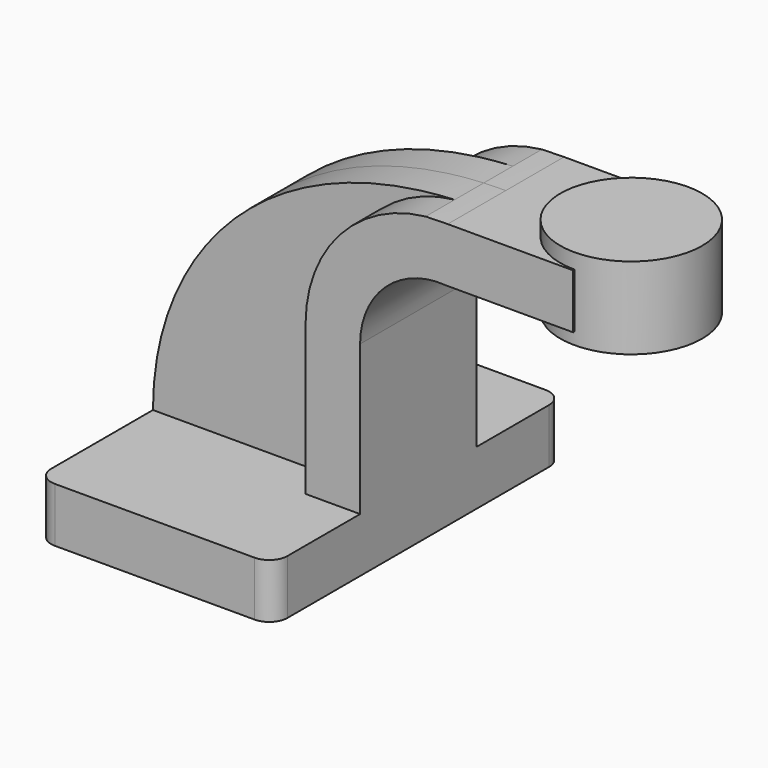
from build123d import *

# Parameters (mm, degrees)
F1_DEPTH = 2.5
F0_W     = 1.0246116972
F0_H     = 0.75
F2_DEPTH = 1
F3_DEPTH = 0.5
F5_R     = 0.25
F6_SCALE = 10


with BuildPart() as f1:
    # F0 (on Front) → F1 (new body, symmetric)
    with BuildSketch(Plane.XZ):
        Polygon((-1.625, 0.375), (-1.625, -0.375), (1.625, -0.375), (1.625, 0.375), (0.875, 0.375), align=None)
    extrude(amount=F1_DEPTH, both=True)

    # F0 (on Front) → F2 (join, symmetric)
    with BuildSketch(Plane.XZ):
        with BuildLine():
            Line((0.875, 0.375), (1.625, 0.375))
            Line((1.625, 0.375), (1.625, 2.435))
            ThreePointArc((1.625, 2.435), (1.9763518814, 3.2395897205), (2.8053269877, 3.5287489089))
            Line((2.8053269877, 3.5287489089), (3.5307152905, 3.5287489089))
            Line((3.5307152905, 3.5287489089), (3.5307152905, 4.2787489089))
            Line((3.5307152905, 4.2787489089), (2.8301783535, 4.2787489089))
            add(Edge.make_bspline(
                [(2.5259841505, 4.2715011565), (2.6257724531, 4.2763068408), (2.7271772665, 4.2787489089), (2.8301783535, 4.2787489089)],
                knots=[5.7079224482, 5.7079224482, 5.7079224482, 5.7079224482, 5.9235014734, 5.9235014734, 5.9235014734, 5.9235014734], degree=3))
            ThreePointArc((2.5259841505, 4.2715011565), (1.3484222124, 3.6697555591), (0.875, 2.435))
            Line((0.875, 2.435), (0.875, 0.375))
        make_face()
        with Locations((4.0430211391, 3.9037489089)):
            Rectangle(F0_W, F0_H)
    extrude(amount=F2_DEPTH, both=True)

    # F0 (on Front) → F3 (join, symmetric)
    with BuildSketch(Plane.XZ):
        with BuildLine():
            add(Edge.make_bspline(
                [(-1.625, 0.375), (-1.625, 2.3600286686), (-0.1161276805, 4.1442602386), (2.5259841505, 4.2715011565)],
                knots=[0, 0, 0, 0, 5.7079224482, 5.7079224482, 5.7079224482, 5.7079224482], degree=3))
            Line((-1.625, 0.375), (0.875, 0.375))
            Line((0.875, 0.375), (0.875, 2.435))
            ThreePointArc((0.875, 2.435), (1.3484222124, 3.6697555591), (2.5259841505, 4.2715011565))
        make_face()
    extrude(amount=F3_DEPTH, both=True)

    # F0 (on Front) → F4 (revolve)
    with BuildSketch(Plane.XZ):
        Polygon((4.5553269877, 4.4876907729), (4.5553269877, 4.2787489089), (4.5553269877, 3.5287489089), (4.5553269877, 3.3626907729), (5.5307152905, 3.3626907729), (5.5307152905, 4.4876907729), align=None)
    revolve(axis=Axis((4.5553269877, 0, 3.9251907729), (0, 0, 1)))

    # F5
    f5_edges = [f1.edges().sort_by_distance(p)[0] for p in [
        (1.625, -2.5, 0),
        (-1.625, -2.5, 0),
        (1.625, 2.5, 0),
        (-1.625, 2.5, 0),
    ]]
    fillet(f5_edges, radius=F5_R)


with BuildPart() as f1_1:
    # F6: moved
    add(f1.part.scale(F6_SCALE))


solid = f1_1.part
